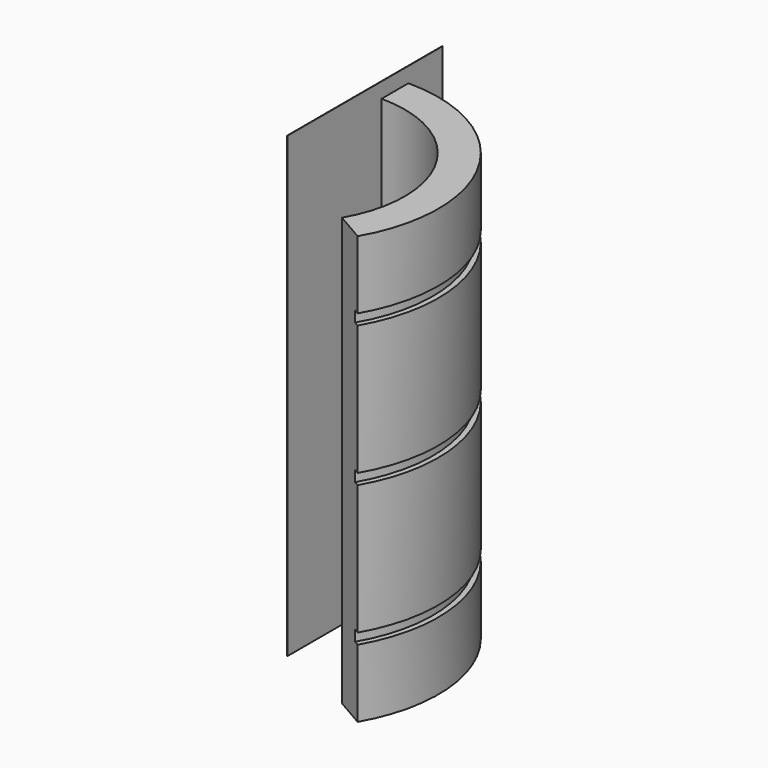
from build123d import *

# Parameters (mm, degrees)
F0_R       = 49.5
F0_R_2     = 38.5
F1_DEPTH   = 70
F2_R       = 54.3323959341
F2_R_2     = 47.75
F3_DEPTH   = 1.75
F6_R       = 54.3323959341
F6_R_2     = 47.75
F8_DEPTH   = 1.75
F7_R       = 54.3323959341
F7_R_2     = 47.75
F9_DEPTH   = 1.75
F10_W      = 0.1
F10_H      = 63.4597092867
F12_DEPTH  = 75
F12_FACE_W = 63.4597092867
F12_FACE_H = 150
F13_ANGLE  = 240
F14_DEPTH  = 150


with BuildPart() as f1:
    # F0 (on Top) → F1 (new body, symmetric)
    with BuildSketch(Plane.XY):
        Circle(F0_R)
        Circle(F0_R_2, mode=Mode.SUBTRACT)
    extrude(amount=F1_DEPTH, both=True)

    # F2 (on Top) → F3 (cut, symmetric)
    with BuildSketch(Plane.XY):
        Circle(F2_R)
        Circle(F2_R_2, mode=Mode.SUBTRACT)
    extrude(amount=F3_DEPTH, both=True, mode=Mode.SUBTRACT)

    # F6 (on offset) → F8 (cut, symmetric)
    with BuildSketch(Plane.XY.offset(46)):
        Circle(F6_R)
        Circle(F6_R_2, mode=Mode.SUBTRACT)
    extrude(amount=F8_DEPTH, both=True, mode=Mode.SUBTRACT)

    # F7 (on offset) → F9 (cut, symmetric)
    with BuildSketch(Plane.XY.offset(-46)):
        Circle(F7_R)
        Circle(F7_R_2, mode=Mode.SUBTRACT)
    extrude(amount=F9_DEPTH, both=True, mode=Mode.SUBTRACT)

    # F10 (on Top) → F12 (join, symmetric)
    with BuildSketch(Plane.XY):
        with Locations((0.05, 31.7298546433)):
            Rectangle(F10_W, F10_H)
    extrude(amount=F12_DEPTH, both=True)


with BuildPart() as f13:
    # F12_face (on face) → F13 (revolve)
    with BuildSketch(Plane(origin=(0, 29.4058824781, 0), x_dir=(0, -1, 0), z_dir=(-1, 0, 0))):
        with Locations((-2.3239721652, 0)):
            Rectangle(F12_FACE_W, F12_FACE_H)
        Polygon((-9.0941175219, -70), (-20.0941175219, -70), (-20.0941175219, -47.75), (-18.3441175219, -47.75), (-18.3441175219, -44.25), (-20.0941175219, -44.25), (-20.0941175219, -1.75), (-18.3441175219, -1.75), (-18.3441175219, 1.75), (-20.0941175219, 1.75), (-20.0941175219, 44.25), (-18.3441175219, 44.25), (-18.3441175219, 47.75), (-20.0941175219, 47.75), (-20.0941175219, 70), (-9.0941175219, 70), align=None, mode=Mode.SUBTRACT)
    revolve(axis=Axis((0, 0, -0.0270418823), (0, 0, 1)), revolution_arc=F13_ANGLE)


with BuildPart() as f14_tool:
    # F14 (cut): a face of the model
    f14_faces = [f13.part.faces().sort_by_distance(p)[0] for p in [
        (-15.1498896302, -8.7467928562, 75),
    ]]
    extrude(f14_faces, amount=-F14_DEPTH)


with BuildPart() as f1_1:
    add(f1.part)

    # F14: cut by f14_tool
    add(f14_tool.part, mode=Mode.SUBTRACT)


with BuildPart() as f13_1:
    add(f13.part)

    # F14: cut by f14_tool
    add(f14_tool.part, mode=Mode.SUBTRACT)


solid = f1_1.part
